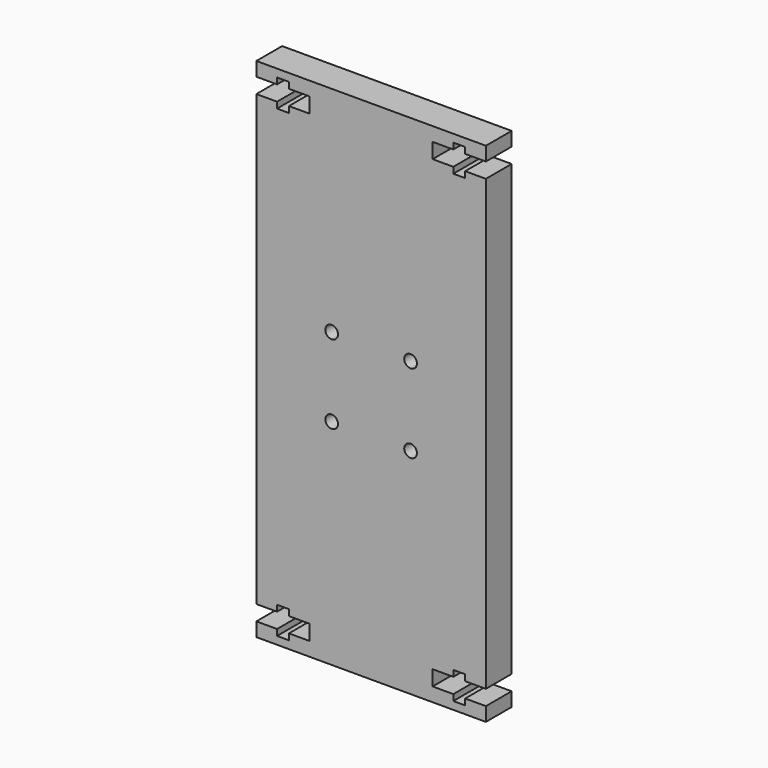
from build123d import *

# Parameters (mm, degrees)
F0_R     = 1.25
F1_DEPTH = 6.35


with BuildPart() as f1:
    # F0 (on Front) → F1 (new body)
    with BuildSketch(Plane.XZ):
        Polygon((22.625, 47.26), (22.625, 50), (-22.625, 50), (-22.625, 47.26), (-18.545, 47.26), (-18.545, 48.465), (-16.205, 48.465), (-16.205, 47.26), (-12.125, 47.26), (-12.125, 44.26), (-16.205, 44.26), (-16.205, 43.055), (-18.545, 43.055), (-18.545, 44.26), (-22.625, 44.26), (-22.625, -44.26), (-18.545, -44.26), (-18.545, -43.055), (-16.205, -43.055), (-16.205, -44.26), (-12.125, -44.26), (-12.125, -47.26), (-16.205, -47.26), (-16.205, -48.465), (-18.545, -48.465), (-18.545, -47.26), (-22.625, -47.26), (-22.625, -50), (22.625, -50), (22.625, -47.26), (18.545, -47.26), (18.545, -48.465), (16.205, -48.465), (16.205, -47.26), (12.125, -47.26), (12.125, -44.26), (16.205, -44.26), (16.205, -43.055), (18.545, -43.055), (18.545, -44.26), (22.625, -44.26), (22.625, 44.26), (18.545, 44.26), (18.545, 43.055), (16.205, 43.055), (16.205, 44.26), (12.125, 44.26), (12.125, 47.26), (16.205, 47.26), (16.205, 48.465), (18.545, 48.465), (18.545, 47.26), align=None)
        with Locations((-7.778175, -7.778175)):
            Circle(F0_R, mode=Mode.SUBTRACT)
        with Locations((7.778175, -7.778175)):
            Circle(F0_R, mode=Mode.SUBTRACT)
        with Locations((-7.778175, 7.778175)):
            Circle(F0_R, mode=Mode.SUBTRACT)
        with Locations((7.778175, 7.778175)):
            Circle(F0_R, mode=Mode.SUBTRACT)
    extrude(amount=F1_DEPTH)


solid = f1.part
